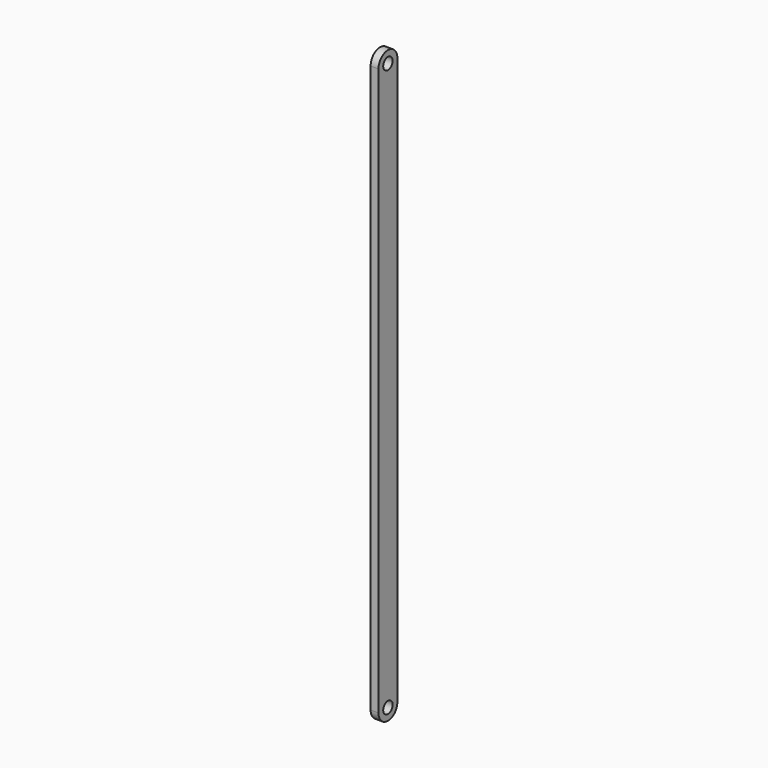
from build123d import *

# Parameters (mm, degrees)
F0_R     = 2.38125
F1_DEPTH = 3.175


with BuildPart() as f1:
    # F0 (on Right) → F1 (new body)
    with BuildSketch(Plane.YZ):
        with BuildLine():
            ThreePointArc((-4.7625, 228.6), (0, 223.8375), (4.7625, 228.6))
            ThreePointArc((4.7625, 228.6), (0, 233.3625), (-4.7625, 228.6))
        make_face()
        with Locations((0, 228.6)):
            Circle(F0_R, mode=Mode.SUBTRACT)
        with BuildLine():
            Line((4.7625, 0), (4.7625, 228.6))
            ThreePointArc((4.7625, 228.6), (0, 223.8375), (-4.7625, 228.6))
            Line((-4.7625, 228.6), (-4.7625, 0))
            ThreePointArc((-4.7625, 0), (0, 4.7625), (4.7625, 0))
        make_face()
        with BuildLine():
            ThreePointArc((-4.7625, 0), (0, -4.7625), (4.7625, 0))
            ThreePointArc((4.7625, 0), (0, 4.7625), (-4.7625, 0))
        make_face()
        Circle(F0_R, mode=Mode.SUBTRACT)
    extrude(amount=F1_DEPTH)


solid = f1.part
